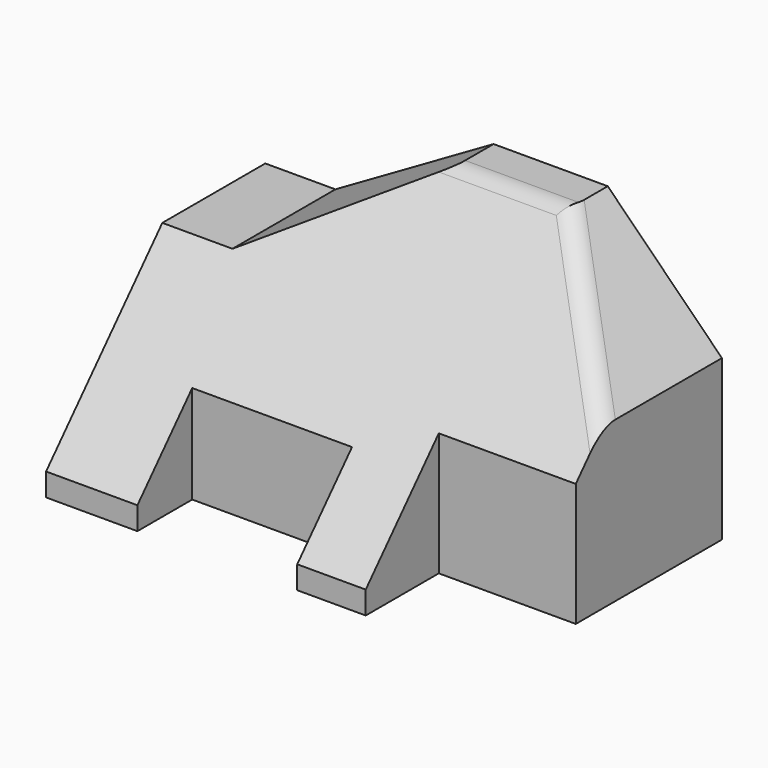
from build123d import *

# Parameters (mm, degrees)
F1_DEPTH = 60
F3_DEPTH = 60.001
F5_DEPTH = 100.001
F6_R     = 5


with BuildPart() as f1:
    # F0 (on Top) → F1 (new body)
    with BuildSketch(Plane.XY):
        Polygon((0, 60), (0, 0), (20, 0), (20, 15), (55, 15), (55, 0), (70, 0), (70, 20), (100, 20), (100, 60), align=None)
    extrude(amount=F1_DEPTH)

    # F2 (on Front) → F3 (cut, through all)
    with BuildSketch(Plane.XZ):
        Polygon((15.358984, 40), (50, 60), (0, 60), (0, 40), align=None)
        Polygon((100, 60), (75, 60), (100, 35), align=None)
    extrude(amount=-F3_DEPTH, mode=Mode.SUBTRACT)

    # F4 (on Right) → F5 (cut, through all)
    with BuildSketch(Plane.YZ):
        Polygon((0, 5), (50, 60), (0, 60), align=None)
    extrude(amount=F5_DEPTH, mode=Mode.SUBTRACT)

    # F6
    f6_edges = [f1.edges().sort_by_distance(p)[0] for p in [
        (62.5, 50, 60),
        (87.5, 38.636364, 47.5),
    ]]
    fillet(f6_edges, radius=F6_R)


solid = f1.part
